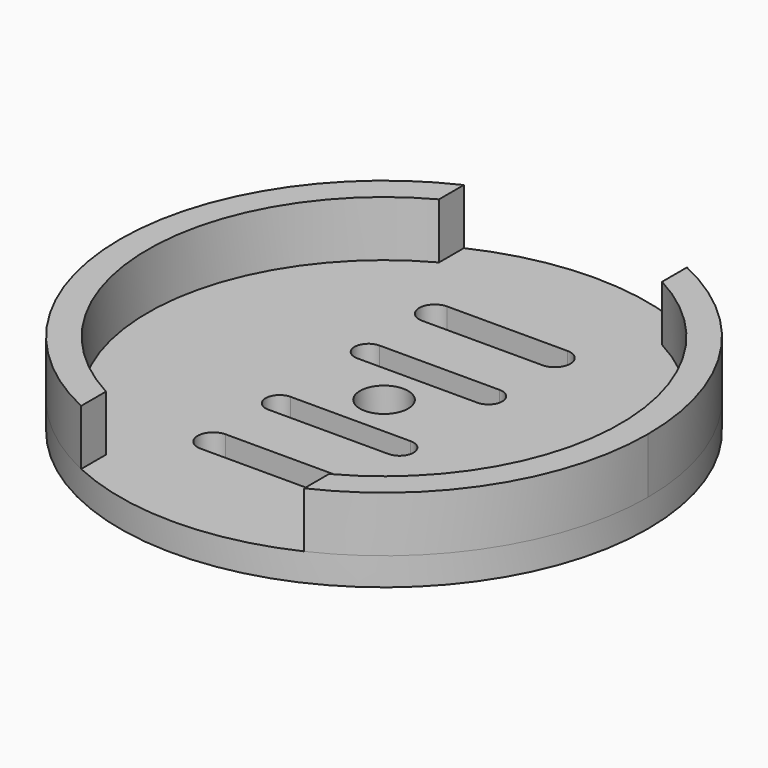
from build123d import *

# Parameters (mm, degrees)
F0_R     = 30.1625
F1_DEPTH = 3.175
F3_DEPTH = 6.35
F4_R     = 2.75
F5_DEPTH = 25.4


with BuildPart() as f1:
    # F0 (on Top) → F1 (new body)
    with BuildSketch(Plane.XY):
        Circle(F0_R)
    extrude(amount=F1_DEPTH)

    # F2 (on face) → F3 (join)
    with BuildSketch(Plane.XY.offset(3.175)):
        with BuildLine():
            ThreePointArc((-12.747223, -23.787254), (-26.9875, 0), (-12.747223, 23.787254))
            Line((-12.747223, 23.787254), (-12.747223, 27.336509))
            ThreePointArc((-12.747223, 27.336509), (-30.1625, 0), (-12.747223, -27.336509))
            Line((-12.747223, -27.336509), (-12.747223, -23.787254))
        make_face()
        with BuildLine():
            ThreePointArc((30.1625, 0), (25.438794, 16.206299), (12.747223, 27.336509))
            Line((12.747223, 27.336509), (12.747223, 23.787254))
            ThreePointArc((12.747223, 23.787254), (26.9875, 0), (12.747223, -23.787254))
            Line((12.747223, -23.787254), (12.747223, -27.336509))
            ThreePointArc((12.747223, -27.336509), (25.438794, -16.206299), (30.1625, 0))
        make_face()
    extrude(amount=F3_DEPTH)

    # F4 (on face) → F5 (cut)
    with BuildSketch(Plane(origin=(0, 0, 0), x_dir=(1, 0, 0), z_dir=(0, 0, -1))):
        with BuildLine():
            Line((6.858, 17.6022), (-6.858, 17.6022))
            ThreePointArc((-6.858, 17.6022), (-8.636, 15.8242), (-6.858, 14.0462))
            Line((-6.858, 14.0462), (6.858, 14.0462))
            ThreePointArc((6.858, 14.0462), (8.636, 15.8242), (6.858, 17.6022))
        make_face()
        with BuildLine():
            ThreePointArc((6.858, -17.6022), (8.636, -15.8242), (6.858, -14.0462))
            Line((6.858, -14.0462), (-6.858, -14.0462))
            ThreePointArc((-6.858, -14.0462), (-8.636, -15.8242), (-6.858, -17.6022))
            Line((-6.858, -17.6022), (6.858, -17.6022))
        make_face()
        Circle(F4_R)
        with BuildLine():
            ThreePointArc((-6.858, 4.7625), (-5.735468, 5.227468), (-5.2705, 6.35))
            ThreePointArc((-5.2705, 6.35), (-5.735468, 7.472532), (-6.858, 7.9375))
            ThreePointArc((-6.858, 7.9375), (-8.4455, 6.35), (-6.858, 4.7625))
        make_face()
        with BuildLine():
            ThreePointArc((-6.858, 7.9375), (-5.735468, 7.472532), (-5.2705, 6.35))
            ThreePointArc((-5.2705, 6.35), (-5.735468, 5.227468), (-6.858, 4.7625))
            Line((-6.858, 4.7625), (6.858, 4.7625))
            ThreePointArc((6.858, 4.7625), (5.2705, 6.35), (6.858, 7.9375))
            Line((6.858, 7.9375), (-6.858, 7.9375))
        make_face()
        with BuildLine():
            ThreePointArc((8.4455, 6.35), (7.980532, 7.472532), (6.858, 7.9375))
            ThreePointArc((6.858, 7.9375), (5.2705, 6.35), (6.858, 4.7625))
            ThreePointArc((6.858, 4.7625), (7.980532, 5.227468), (8.4455, 6.35))
        make_face()
        with BuildLine():
            Line((6.858, -4.7625), (-6.858, -4.7625))
            ThreePointArc((-6.858, -4.7625), (-5.735468, -5.227468), (-5.2705, -6.35))
            ThreePointArc((-5.2705, -6.35), (-5.735468, -7.472532), (-6.858, -7.9375))
            Line((-6.858, -7.9375), (6.858, -7.9375))
            ThreePointArc((6.858, -7.9375), (5.2705, -6.35), (6.858, -4.7625))
        make_face()
        with BuildLine():
            ThreePointArc((-5.2705, -6.35), (-5.735468, -5.227468), (-6.858, -4.7625))
            ThreePointArc((-6.858, -4.7625), (-8.4455, -6.35), (-6.858, -7.9375))
            ThreePointArc((-6.858, -7.9375), (-5.735468, -7.472532), (-5.2705, -6.35))
        make_face()
        with BuildLine():
            ThreePointArc((8.4455, -6.35), (7.980532, -5.227468), (6.858, -4.7625))
            ThreePointArc((6.858, -4.7625), (5.2705, -6.35), (6.858, -7.9375))
            ThreePointArc((6.858, -7.9375), (7.980532, -7.472532), (8.4455, -6.35))
        make_face()
    extrude(amount=-F5_DEPTH, mode=Mode.SUBTRACT)


solid = f1.part
